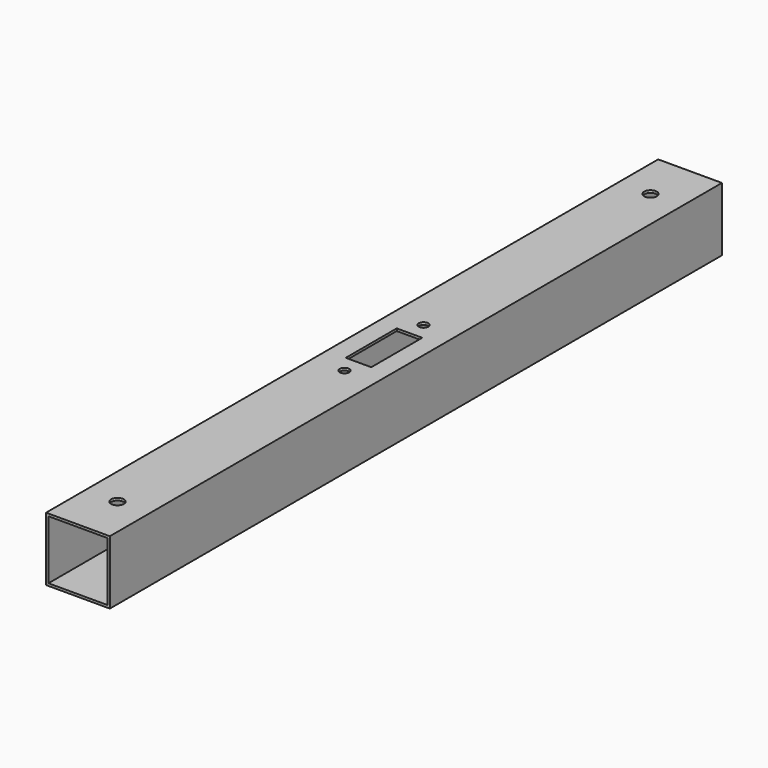
from build123d import *

# Parameters (mm, degrees)
F0_W     = 20
F0_H     = 20
F0_W_2   = 18.5
F0_H_2   = 18.5
F1_DEPTH = 240
F2_W     = 6
F2_H     = 9
F3_DEPTH = 25
F5_DEPTH = 25


with BuildPart() as f1:
    # F0 (on Front) → F1 (new body)
    with BuildSketch(Plane.XZ):
        with Locations((-44.484539, 36.999997)):
            Rectangle(F0_W, F0_H)
        with Locations((-44.484539, 36.999997)):
            Rectangle(F0_W_2, F0_H_2, mode=Mode.SUBTRACT)
    extrude(amount=F1_DEPTH)

    # F2 (on face) → F3 (cut)
    with BuildSketch(Plane.XY.offset(46.999997)):
        with Locations((-44.484539, -124.5)):
            Rectangle(F2_W, F2_H)
        with Locations((-44.484539, -115.5)):
            Rectangle(F2_W, F2_H)
        Polygon((-48.484539, -110), (-48.484539, -120), (-47.484539, -120), (-47.484539, -111), (-41.484539, -111), (-41.484539, -120), (-40.484539, -120), (-40.484539, -110), (-44.484539, -110), align=None)
        Polygon((-47.484539, -120), (-48.484539, -120), (-48.484539, -130), (-44.484539, -130), (-40.484539, -130), (-40.484539, -120), (-41.484539, -120), (-41.484539, -129), (-47.484539, -129), align=None)
        with BuildLine():
            ThreePointArc((-42.984539, -104.5), (-45.545199, -103.43934), (-44.484539, -106))
            ThreePointArc((-44.484539, -106), (-43.423879, -105.56066), (-42.984539, -104.5))
        make_face()
        with BuildLine():
            ThreePointArc((-42.984539, -135.5), (-43.423879, -134.43934), (-44.484539, -134))
            ThreePointArc((-44.484539, -134), (-45.545199, -136.56066), (-42.984539, -135.5))
        make_face()
    extrude(amount=-F3_DEPTH, mode=Mode.SUBTRACT)

    # F4 (on face) → F5 (cut)
    with BuildSketch(Plane.XY.offset(46.999997)):
        with BuildLine():
            ThreePointArc((-44.484539, -226.5), (-43.070325, -225.914214), (-42.484539, -224.5))
            ThreePointArc((-42.484539, -224.5), (-45.898752, -223.085786), (-44.484539, -226.5))
        make_face()
        with BuildLine():
            ThreePointArc((-44.484539, -13.5), (-45.898752, -16.914214), (-42.484539, -15.5))
            ThreePointArc((-42.484539, -15.5), (-43.070325, -14.085786), (-44.484539, -13.5))
        make_face()
    extrude(amount=-F5_DEPTH, mode=Mode.SUBTRACT)


solid = f1.part
